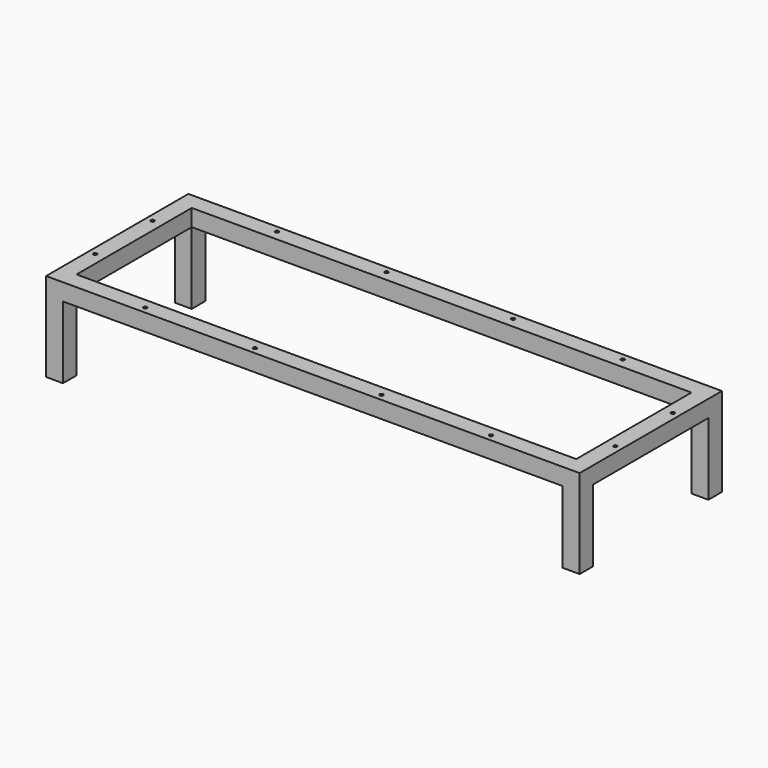
from build123d import *

# Parameters (mm, degrees)
F1_DEPTH  = 38
F2_W      = 324
F2_H      = 38
F3_DEPTH  = 38
F4_W      = 38
F4_H      = 38
F5_DEPTH  = 324
F7_DEPTH  = 38
F8_T      = -2.5
F9_R      = 4
F10_DEPTH = 200.001


with BuildPart() as f1:
    # F0 (on Front) → F1 (new body)
    with BuildSketch(Plane.XZ):
        Polygon((0, 200), (0, 0), (38, 0), (38, 162), (1162, 162), (1162, 0), (1200, 0), (1200, 200), (1162, 200), (38, 200), align=None)
    extrude(amount=F1_DEPTH)

    # F2 (on face) → F3 (join)
    with BuildSketch(Plane(origin=(0, 0, 0), x_dir=(0, -1, 0), z_dir=(-1, 0, 0))):
        with Locations((-162, 181)):
            Rectangle(F2_W, F2_H)
    extrude(amount=-F3_DEPTH)

    # F4 (on face) → F5 (join)
    with BuildSketch(Plane(origin=(0, 0, 0), x_dir=(-1, 0, 0), z_dir=(0, 1, 0))):
        with Locations((-1181, 181)):
            Rectangle(F4_W, F4_H)
    extrude(amount=F5_DEPTH)

    # F6 (on face) → F7 (join)
    with BuildSketch(Plane(origin=(0, 324, 0), x_dir=(-1, 0, 0), z_dir=(0, 1, 0))):
        Polygon((-1162, 200), (-1200, 200), (-1200, 162), (-1200, 0), (-1162, 0), (-1162, 162), (-38, 162), (-38, 0), (0, 0), (0, 162), (0, 200), (-38, 200), align=None)
    extrude(amount=F7_DEPTH)

    # F8
    f8_openings = [f1.faces().sort_by_distance(p)[0] for p in [
        (19, 343, 0),
        (19, -19, 0),
        (1181, -19, 0),
        (1181, 343, 0),
    ]]
    offset(amount=F8_T, openings=f8_openings, kind=Kind.INTERSECTION)

    # F9 (on face) → F10 (cut, through all)
    with BuildSketch(Plane.XY.offset(200)):
        with BuildLine():
            ThreePointArc((215.25, 347), (214.0784271247, 349.8284271247), (211.25, 351))
            Line((211.25, 351), (211.25, 347))
            Line((211.25, 347), (215.25, 347))
        make_face()
        with BuildLine():
            ThreePointArc((461.75, 347), (457.75, 351), (453.75, 347))
            ThreePointArc((453.75, 347), (457.75, 343), (461.75, 347))
        make_face()
        with BuildLine():
            Line((211.25, 347), (211.25, 351))
            ThreePointArc((211.25, 351), (208.4215728753, 344.1715728753), (215.25, 347))
            Line((215.25, 347), (211.25, 347))
        make_face()
        with Locations((988.75, 347)):
            Circle(F9_R)
        with Locations((742.25, 347)):
            Circle(F9_R)
        with Locations((211.25, -23)):
            Circle(F9_R)
        with Locations((457.75, -23)):
            Circle(F9_R)
        with Locations((742.25, -23)):
            Circle(F9_R)
        with Locations((988.75, -23)):
            Circle(F9_R)
        with BuildLine():
            ThreePointArc((11, 81), (15, 77), (19, 81))
            ThreePointArc((19, 81), (15, 85), (11, 81))
        make_face()
        with Locations((15, 243)):
            Circle(F9_R)
        with Locations((1185, 243)):
            Circle(F9_R)
        with Locations((1185, 81)):
            Circle(F9_R)
    extrude(amount=-F10_DEPTH, mode=Mode.SUBTRACT)


solid = f1.part
